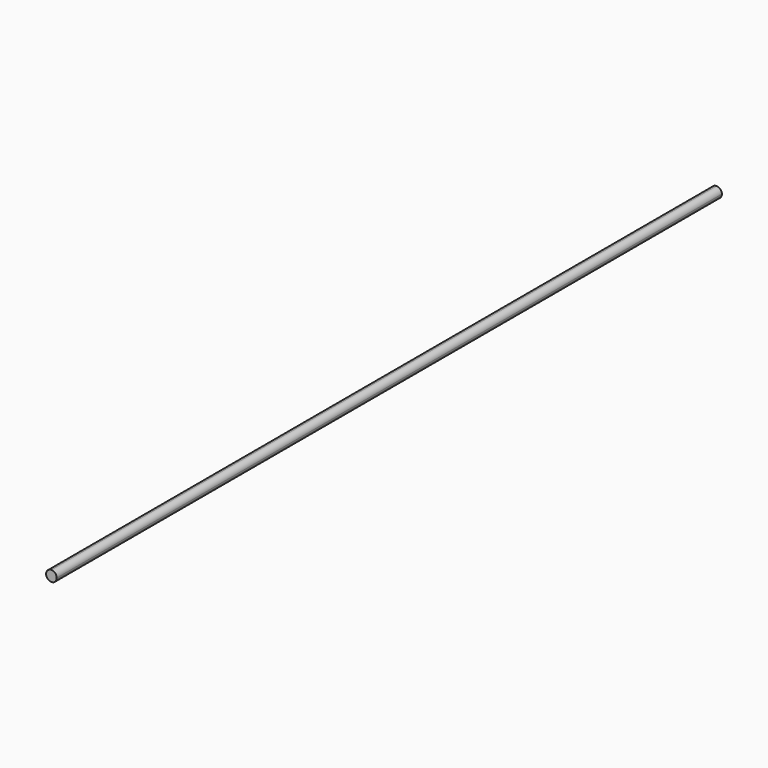
from build123d import *

# Parameters (mm, degrees)
F1_DEPTH = 5000


with BuildPart() as f1:
    # F0 (on Front) → F1 (new body)
    with BuildSketch(Plane.XZ):
        with BuildLine():
            Line((0, -32), (0, 32))
            ThreePointArc((0, 32), (-32, 0), (0, -32))
        make_face()
        with BuildLine():
            ThreePointArc((0, -32), (22.627416998, -22.627416998), (32, 0))
            ThreePointArc((32, 0), (22.627416998, 22.627416998), (0, 32))
            Line((0, 32), (0, -32))
        make_face()
    extrude(amount=F1_DEPTH)


solid = f1.part
